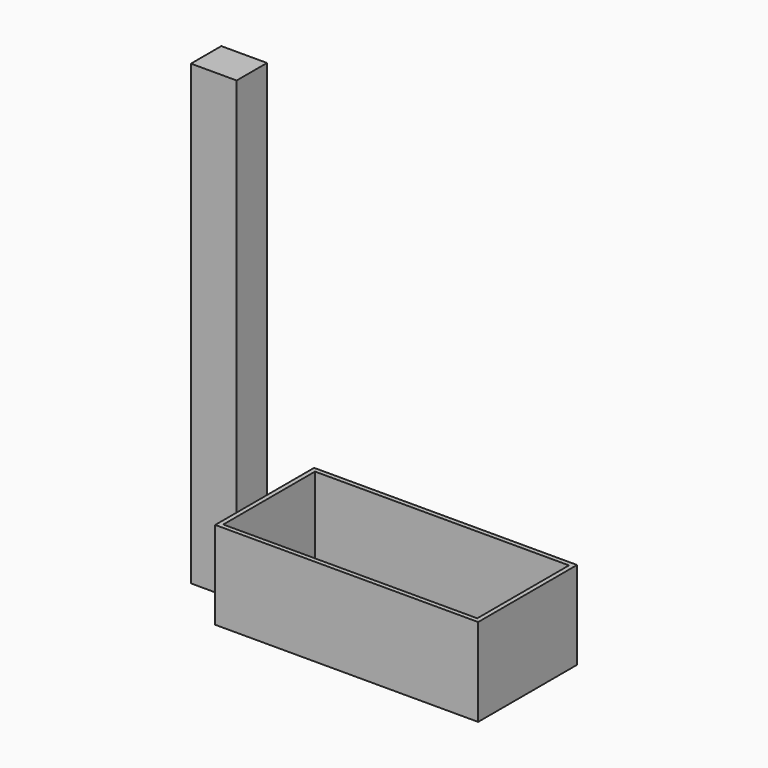
from build123d import *

# Parameters (mm, degrees)
F0_W     = 148.8671
F0_H     = 69.988542
F1_DEPTH = 49.784
F2_T     = -2.54
F3_W     = 25.8618
F3_H     = 21.497636
F4_DEPTH = 259.08


with BuildPart() as f1:
    # F0 (on Top) → F1 (new body)
    with BuildSketch(Plane.XY):
        Rectangle(F0_W, F0_H)
    extrude(amount=F1_DEPTH)

    # F2
    f2_openings = [f1.faces().sort_by_distance(p)[0] for p in [
        (0, 0, 49.784),
    ]]
    offset(amount=F2_T, openings=f2_openings)


with BuildPart() as f4:
    # F3 (on Top) → F4 (new body)
    with BuildSketch(Plane.XY):
        with Locations((-94.638087, 0)):
            Rectangle(F3_W, F3_H)
    extrude(amount=F4_DEPTH)


solid = Compound([f1.part, f4.part])
